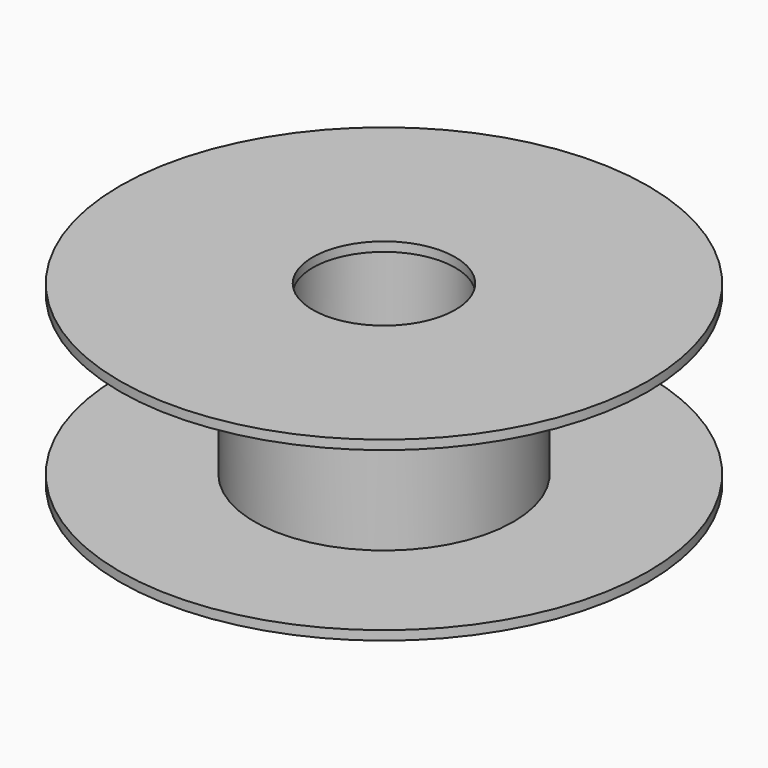
from build123d import *

# Parameters (mm, degrees)
SKETCH037_R   = 49
SKETCH037_R_2 = 27.5
PAD028_DEPTH  = 67
SKETCH035_R   = 100
SKETCH035_R_2 = 27
PAD026_DEPTH  = 3.5
SKETCH036_R   = 100
SKETCH036_R_2 = 27
PAD027_DEPTH  = 3.5


with BuildPart() as part:
    # Sketch037 → Pad028 (new body)
    with BuildSketch(Plane.XY):
        Circle(SKETCH037_R)
        Circle(SKETCH037_R_2, mode=Mode.SUBTRACT)
    extrude(amount=PAD028_DEPTH)

    # Sketch035 → Pad026 (join)
    with BuildSketch(Plane.XY):
        Circle(SKETCH035_R)
        Circle(SKETCH035_R_2, mode=Mode.SUBTRACT)
    extrude(amount=PAD026_DEPTH)

    # Sketch036 → Pad027 (join)
    with BuildSketch(Plane.XY.offset(67)):
        Circle(SKETCH036_R)
        Circle(SKETCH036_R_2, mode=Mode.SUBTRACT)
    extrude(amount=-PAD027_DEPTH)


with BuildPart() as part_1:
    # Body008 placement: moved
    add(part.part.moved(Location((0, 0, 63))))


solid = part_1.part
